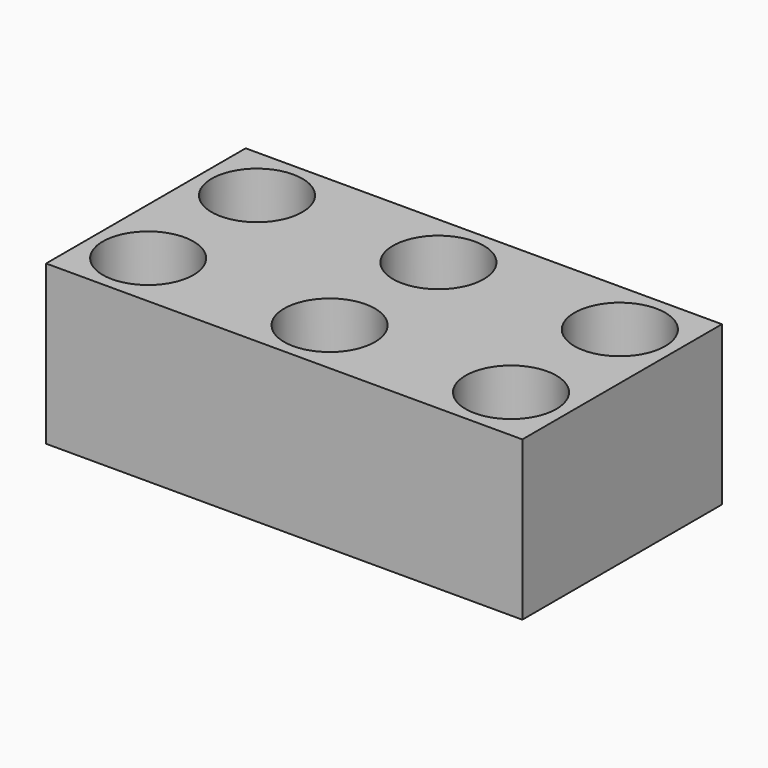
from build123d import *

# Parameters (mm, degrees)
SKETCH103_R      = 1
EXTRUDE020_DEPTH = 4
SKETCH102_R      = 1
EXTRUDE021_DEPTH = 4
SKETCH101_R      = 1
EXTRUDE019_DEPTH = 4
SKETCH100_W      = 10.5
SKETCH100_H      = 5.5
EXTRUDE018_DEPTH = 3.5


with BuildPart() as extrude020:
    # Sketch103 → Extrude020 (new body)
    with BuildSketch(Plane(origin=(8.25, 0.25, 0), x_dir=(1, 0, 0), z_dir=(0, 0, 1))):
        with Locations((1, 1)):
            Circle(SKETCH103_R)
        with Locations((1, 4)):
            Circle(SKETCH103_R)
    extrude(amount=EXTRUDE020_DEPTH)


with BuildPart() as extrude021:
    # Sketch102 → Extrude021 (new body)
    with BuildSketch(Plane(origin=(4.25, 0.25, 0), x_dir=(1, 0, 0), z_dir=(0, 0, 1))):
        with Locations((1, 1)):
            Circle(SKETCH102_R)
        with Locations((1, 4)):
            Circle(SKETCH102_R)
    extrude(amount=EXTRUDE021_DEPTH)


with BuildPart() as fusion009:
    # Sketch101 → Extrude019 (new body)
    with BuildSketch(Plane(origin=(0.25, 0.25, 0), x_dir=(1, 0, 0), z_dir=(0, 0, 1))):
        with Locations((1, 1)):
            Circle(SKETCH101_R)
        with Locations((1, 4)):
            Circle(SKETCH101_R)
    extrude(amount=EXTRUDE019_DEPTH)

    # Fusion009: union Extrude020, Extrude021
    add(extrude020.part)
    add(extrude021.part)


with BuildPart() as cut017:
    # Sketch100 → Extrude018 (new body)
    with BuildSketch(Plane.XY):
        with Locations((5.25, 2.75)):
            Rectangle(SKETCH100_W, SKETCH100_H)
    extrude(amount=EXTRUDE018_DEPTH)

    # Cut017: cut Fusion009
    add(fusion009.part, mode=Mode.SUBTRACT)


solid = cut017.part
